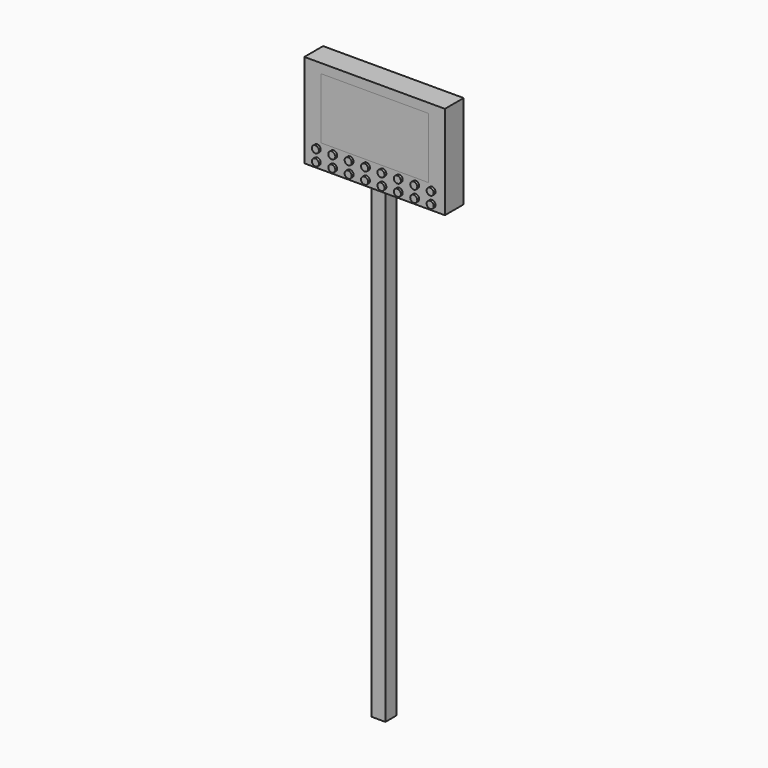
from build123d import *

# Parameters (mm, degrees)
F0_W     = 300
F0_H     = 200
F1_DEPTH = 50
F2_W     = 230
F2_H     = 130
F3_DEPTH = 25
F4_W     = 230
F4_H     = 130
F5_DEPTH = 25
F6_R     = 7.5
F7_DEPTH = 5
F8_W     = 30
F8_H     = 30
F9_DEPTH = 1000


with BuildPart() as f1:
    # F0 (on Front) → F1 (new body)
    with BuildSketch(Plane.XZ):
        Rectangle(F0_W, F0_H)
    extrude(amount=-F1_DEPTH)

    # F2 (on face) → F3 (cut)
    with BuildSketch(Plane.XZ):
        with Locations((0, 15)):
            Rectangle(F2_W, F2_H)
    extrude(amount=-F3_DEPTH, mode=Mode.SUBTRACT)

    # F8 (on face) → F9 (join)
    with BuildSketch(Plane(origin=(0, 0, -100), x_dir=(1, 0, 0), z_dir=(0, 0, -1))):
        with Locations((0, -25)):
            Rectangle(F8_W, F8_H)
    extrude(amount=F9_DEPTH)


with BuildPart() as f5:
    # F4 (on face) → F5 (new body)
    with BuildSketch(Plane.XZ.offset(-25)):
        with Locations((0, 15)):
            Rectangle(F4_W, F4_H)
    extrude(amount=F5_DEPTH)


with BuildPart() as f7:
    # F6 (on face) → F7 (new body)
    with BuildSketch(Plane.XZ):
        with Locations((-122.5, -62.6684501767)):
            Circle(F6_R)
    extrude(amount=F7_DEPTH)


with BuildPart() as f7b:
    # F6 (on face) → F7, piece 2 (new body)
    with BuildSketch(Plane.XZ):
        with Locations((-122.5, -87.4706730247)):
            Circle(F6_R)
    extrude(amount=F7_DEPTH)


with BuildPart() as f7c:
    # F6 (on face) → F7, piece 3 (new body)
    with BuildSketch(Plane.XZ):
        with Locations((-87.5, -62.6684501767)):
            Circle(F6_R)
    extrude(amount=F7_DEPTH)


with BuildPart() as f7d:
    # F6 (on face) → F7, piece 4 (new body)
    with BuildSketch(Plane.XZ):
        with Locations((-87.5, -87.4706730247)):
            Circle(F6_R)
    extrude(amount=F7_DEPTH)


with BuildPart() as f7e:
    # F6 (on face) → F7, piece 5 (new body)
    with BuildSketch(Plane.XZ):
        with Locations((-52.5, -62.6684501767)):
            Circle(F6_R)
    extrude(amount=F7_DEPTH)


with BuildPart() as f7f:
    # F6 (on face) → F7, piece 6 (new body)
    with BuildSketch(Plane.XZ):
        with Locations((-52.5, -87.4706730247)):
            Circle(F6_R)
    extrude(amount=F7_DEPTH)


with BuildPart() as f7g:
    # F6 (on face) → F7, piece 7 (new body)
    with BuildSketch(Plane.XZ):
        with Locations((-17.5, -62.6684501767)):
            Circle(F6_R)
    extrude(amount=F7_DEPTH)


with BuildPart() as f7h:
    # F6 (on face) → F7, piece 8 (new body)
    with BuildSketch(Plane.XZ):
        with Locations((-17.5, -87.4706730247)):
            Circle(F6_R)
    extrude(amount=F7_DEPTH)


with BuildPart() as f7i:
    # F6 (on face) → F7, piece 9 (new body)
    with BuildSketch(Plane.XZ):
        with Locations((17.5, -62.6684501767)):
            Circle(F6_R)
    extrude(amount=F7_DEPTH)


with BuildPart() as f7j:
    # F6 (on face) → F7, piece 10 (new body)
    with BuildSketch(Plane.XZ):
        with Locations((17.5, -87.4706730247)):
            Circle(F6_R)
    extrude(amount=F7_DEPTH)


with BuildPart() as f7k:
    # F6 (on face) → F7, piece 11 (new body)
    with BuildSketch(Plane.XZ):
        with Locations((52.5, -62.6684501767)):
            Circle(F6_R)
    extrude(amount=F7_DEPTH)


with BuildPart() as f7l:
    # F6 (on face) → F7, piece 12 (new body)
    with BuildSketch(Plane.XZ):
        with Locations((52.5, -87.4706730247)):
            Circle(F6_R)
    extrude(amount=F7_DEPTH)


with BuildPart() as f7m:
    # F6 (on face) → F7, piece 13 (new body)
    with BuildSketch(Plane.XZ):
        with Locations((87.5, -62.6684501767)):
            Circle(F6_R)
    extrude(amount=F7_DEPTH)


with BuildPart() as f7n:
    # F6 (on face) → F7, piece 14 (new body)
    with BuildSketch(Plane.XZ):
        with Locations((87.5, -87.4706730247)):
            Circle(F6_R)
    extrude(amount=F7_DEPTH)


with BuildPart() as f7o:
    # F6 (on face) → F7, piece 15 (new body)
    with BuildSketch(Plane.XZ):
        with Locations((122.5, -62.6684501767)):
            Circle(F6_R)
    extrude(amount=F7_DEPTH)


with BuildPart() as f7p:
    # F6 (on face) → F7, piece 16 (new body)
    with BuildSketch(Plane.XZ):
        with Locations((122.5, -87.4706730247)):
            Circle(F6_R)
    extrude(amount=F7_DEPTH)


solid = Compound([f1.part, f5.part, f7.part, f7b.part, f7c.part, f7d.part, f7e.part, f7f.part, f7g.part, f7h.part, f7i.part, f7j.part, f7k.part, f7l.part, f7m.part, f7n.part, f7o.part, f7p.part])
